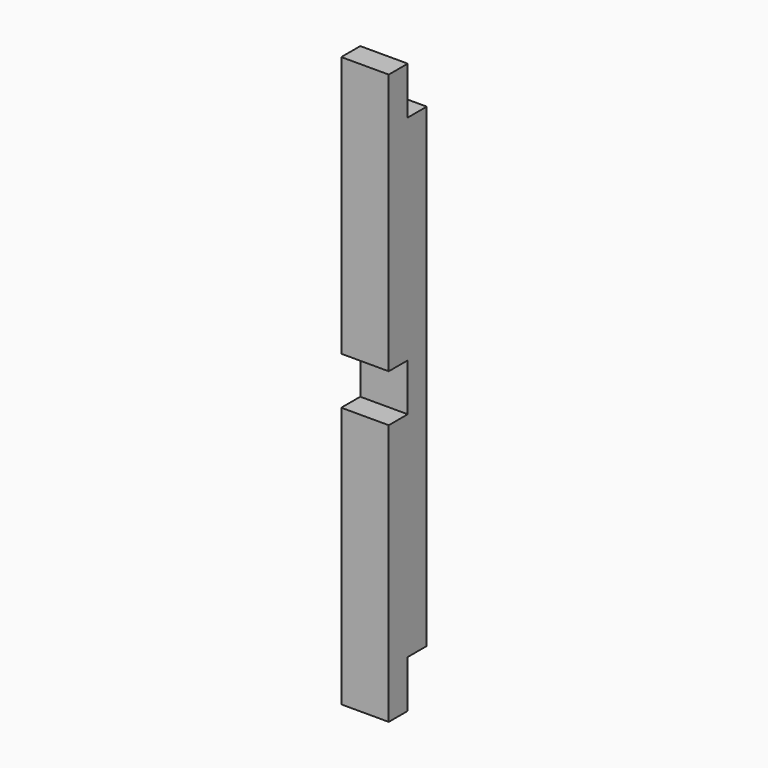
from build123d import *

# Parameters (mm, degrees)
F0_W     = 100
F0_H     = 100
F1_DEPTH = 1200
F2_W     = 50
F2_H     = 100
F3_DEPTH = 100.001


with BuildPart() as f1:
    # F0 (on Top) → F1 (new body)
    with BuildSketch(Plane.XY):
        Rectangle(F0_W, F0_H)
    extrude(amount=F1_DEPTH)

    # F2 (on face) → F3 (cut, through all)
    with BuildSketch(Plane.YZ.offset(50)):
        with Locations((25, 50)):
            Rectangle(F2_W, F2_H)
        with Locations((25, 1150)):
            Rectangle(F2_W, F2_H)
        with Locations((-25, 600)):
            Rectangle(F2_W, F2_H)
    extrude(amount=-F3_DEPTH, mode=Mode.SUBTRACT)


solid = f1.part
